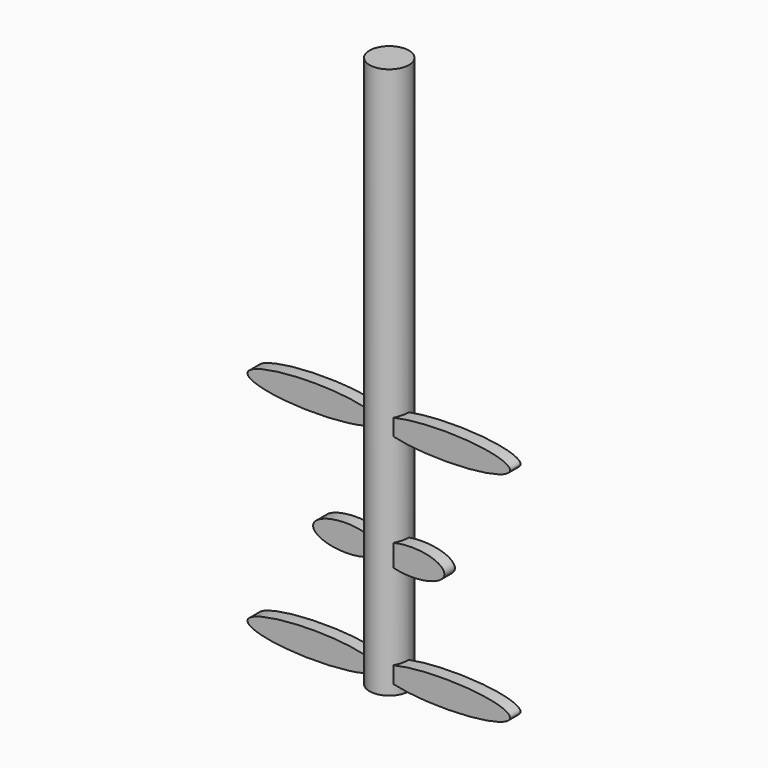
from build123d import *

# Parameters (mm, degrees)
F0_R     = 3.75
F1_DEPTH = 105
F3_DEPTH = 2.5


with BuildPart() as f1:
    # F0 (on Top) → F1 (new body)
    with BuildSketch(Plane.XY):
        Circle(F0_R)
    extrude(amount=F1_DEPTH)

    # F2 (on Front) → F3 (join)
    with BuildSketch(Plane.XZ):
        with BuildLine():
            add(Edge.make_bspline(
                [(-25, 3.5), (-25, 1), (-12.5, 1), (0, 1), (0, 3.5)],
                knots=[0, 0, 0, 1.570796, 1.570796, 3.141593, 3.141593, 3.141593], degree=2, weights=[1, 0.707107, 1, 0.707107, 1]))
            add(Edge.make_bspline(
                [(0, 3.5), (0, 6), (-12.5, 6), (-25, 6), (-25, 3.5)],
                knots=[3.141593, 3.141593, 3.141593, 4.712389, 4.712389, 6.283185, 6.283185, 6.283185], degree=2, weights=[1, 0.707107, 1, 0.707107, 1]))
        make_face()
        with BuildLine():
            add(Edge.make_bspline(
                [(0, 23.5), (0, 19.169873), (9.375, 21.334936), (18.75, 23.5), (9.375, 25.665064), (0, 27.830127), (0, 23.5)],
                knots=[0, 0, 0, 2.094395, 2.094395, 4.18879, 4.18879, 6.283185, 6.283185, 6.283185], degree=2, weights=[1, 0.5, 1, 0.5, 1, 0.5, 1]))
        make_face()
        with BuildLine():
            add(Edge.make_bspline(
                [(-12.5, 23.5), (-12.5, 21), (-6.25, 21), (0, 21), (0, 23.5)],
                knots=[0, 0, 0, 1.570796, 1.570796, 3.141593, 3.141593, 3.141593], degree=2, weights=[1, 0.707107, 1, 0.707107, 1]))
            add(Edge.make_bspline(
                [(0, 23.5), (0, 26), (-6.25, 26), (-12.5, 26), (-12.5, 23.5)],
                knots=[3.141593, 3.141593, 3.141593, 4.712389, 4.712389, 6.283185, 6.283185, 6.283185], degree=2, weights=[1, 0.707107, 1, 0.707107, 1]))
        make_face()
        with BuildLine():
            add(Edge.make_bspline(
                [(0, 45), (0, 40.669873), (18.75, 42.834936), (37.5, 45), (18.75, 47.165064), (0, 49.330127), (0, 45)],
                knots=[0, 0, 0, 2.094395, 2.094395, 4.18879, 4.18879, 6.283185, 6.283185, 6.283185], degree=2, weights=[1, 0.5, 1, 0.5, 1, 0.5, 1]))
        make_face()
        with BuildLine():
            add(Edge.make_bspline(
                [(-25, 45), (-25, 42.5), (-12.5, 42.5), (0, 42.5), (0, 45)],
                knots=[0, 0, 0, 1.570796, 1.570796, 3.141593, 3.141593, 3.141593], degree=2, weights=[1, 0.707107, 1, 0.707107, 1]))
            add(Edge.make_bspline(
                [(0, 45), (0, 47.5), (-12.5, 47.5), (-25, 47.5), (-25, 45)],
                knots=[3.141593, 3.141593, 3.141593, 4.712389, 4.712389, 6.283185, 6.283185, 6.283185], degree=2, weights=[1, 0.707107, 1, 0.707107, 1]))
        make_face()
        with BuildLine():
            add(Edge.make_bspline(
                [(0, 3.5), (0, -0.830127), (18.75, 1.334936), (37.5, 3.5), (18.75, 5.665064), (0, 7.830127), (0, 3.5)],
                knots=[0, 0, 0, 2.094395, 2.094395, 4.18879, 4.18879, 6.283185, 6.283185, 6.283185], degree=2, weights=[1, 0.5, 1, 0.5, 1, 0.5, 1]))
        make_face()
    extrude(amount=F3_DEPTH)


solid = f1.part
